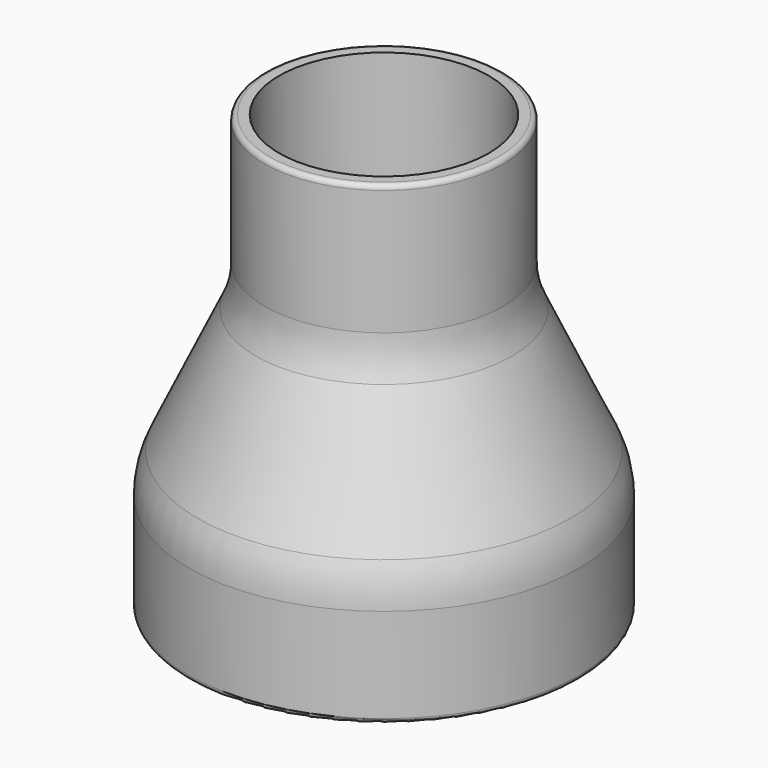
from build123d import *

# Parameters (mm, degrees)
F2_R = 1


with BuildPart() as f1:
    # F0 (on Front) → F1 (revolve)
    with BuildSketch(Plane.XZ):
        with BuildLine():
            Line((37.5, 20.566107), (37.5, 0))
            Line((37.5, 0), (40.5, 0))
            Line((40.5, 0), (40.5, 20.566107))
            ThreePointArc((40.5, 20.566107), (40.02592, 24.894899), (38.626156, 29.018472))
            Line((38.626156, 29.018472), (26.623844, 54.757512))
            ThreePointArc((26.623844, 54.757512), (25.22408, 58.881085), (24.75, 63.209877))
            Line((24.75, 63.209877), (24.75, 90.209505))
            Line((24.75, 90.209505), (21.75, 90.209505))
            Line((21.75, 90.209505), (21.75, 65.209505))
            Line((21.75, 65.209505), (20.319686, 65.209505))
            ThreePointArc((20.319686, 65.209505), (19.476294, 64.746804), (19.413378, 63.786886))
            Line((19.413378, 63.786886), (35.626156, 29.018472))
            ThreePointArc((35.626156, 29.018472), (37.02592, 24.894899), (37.5, 20.566107))
        make_face()
    revolve(axis=Axis((0, 0, 12.426036), (0, 0, -1)))

    # F2
    f2_edges = [f1.edges().sort_by_distance(p)[0] for p in [
        (-40.5, 0, 0),
        (-24.75, 0, 90.209505),
    ]]
    fillet(f2_edges, radius=F2_R)


solid = f1.part
